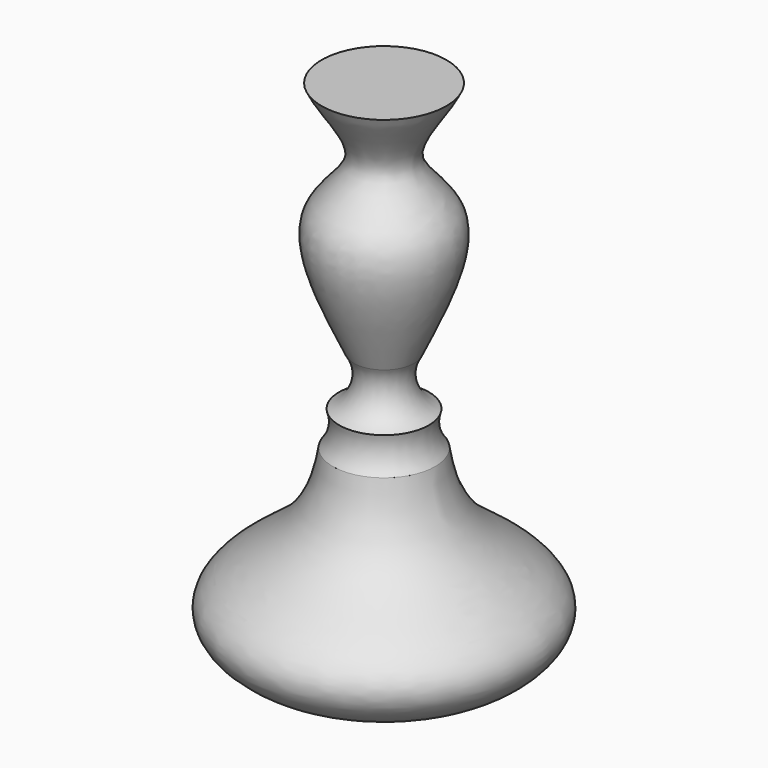
from build123d import *


with BuildPart() as f1:
    # F0 (on Front) → F1 (revolve)
    with BuildSketch(Plane.XZ):
        with BuildLine():
            Line((0, 381), (0, 0))
            add(Edge.make_bspline(
                [(0, 0), (81.5009044763, 0), (138.2613932034, 49.3172768584), (53.4340063047, 90.599905467), (40.3220016138, 126.6740366004), (37.2077767512, 147.4438452357)],
                knots=[0, 0, 0, 0, 0.4111186083, 0.7111168709, 1, 1, 1, 1], degree=3))
            ThreePointArc((37.2077767512, 147.4438452357), (31.7720253987, 159.3525339441), (32.6620976738, 172.4128567145))
            ThreePointArc((32.6620976738, 172.4128567145), (18.8930897031, 188.0596436206), (22.0590587705, 208.6602300406))
            add(Edge.make_bspline(
                [(22.0590587705, 208.6602300406), (37.120670082, 241.1451197893), (65.6306923167, 298.5492951462), (4.6835128274, 331.6278888686), (37.6670017244, 364.5304767428), (45.4283468425, 381)],
                knots=[0, 0, 0, 0, 0.4075718115, 0.6906743791, 1, 1, 1, 1], degree=3))
            Line((45.4283468425, 381), (0, 381))
        make_face()
    revolve(axis=Axis((0, 0, 190.5), (0, 0, 1)))


solid = f1.part
